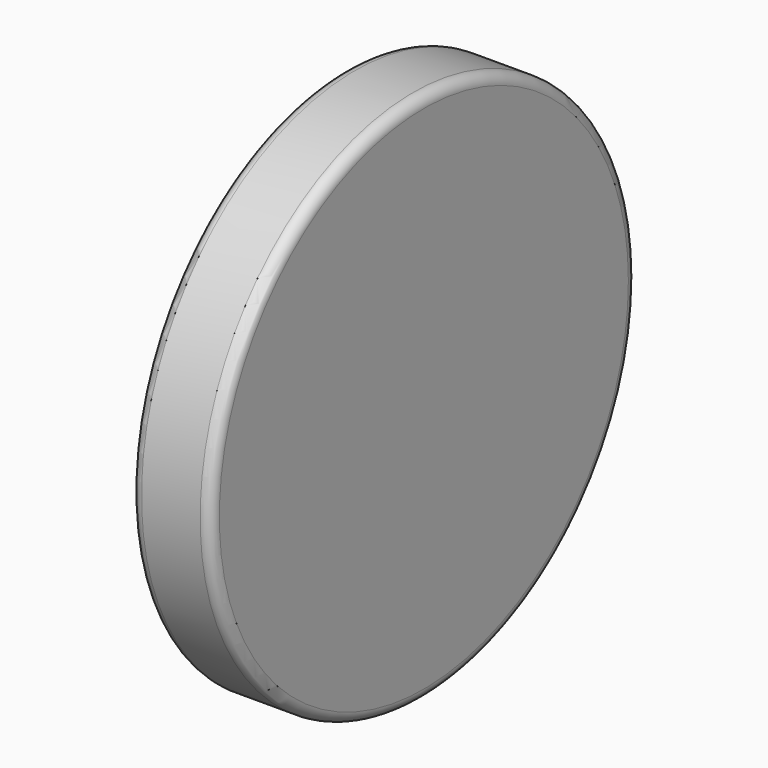
from build123d import *

# Parameters (mm, degrees)
F0_R     = 63.5
F1_DEPTH = 19.05
F2_R     = 2.54
F3_R     = 2.54


with BuildPart() as f1:
    # F0 (on Right) → F1 (new body)
    with BuildSketch(Plane.YZ):
        Circle(F0_R)
    extrude(amount=F1_DEPTH)

    # F2
    f2_edges = [f1.edges().sort_by_distance(p)[0] for p in [
        (19.05, -63.5, 0),
    ]]
    fillet(f2_edges, radius=F2_R)

    # F3
    f3_edges = [f1.edges().sort_by_distance(p)[0] for p in [
        (0, -63.5, 0),
    ]]
    fillet(f3_edges, radius=F3_R)


solid = f1.part
